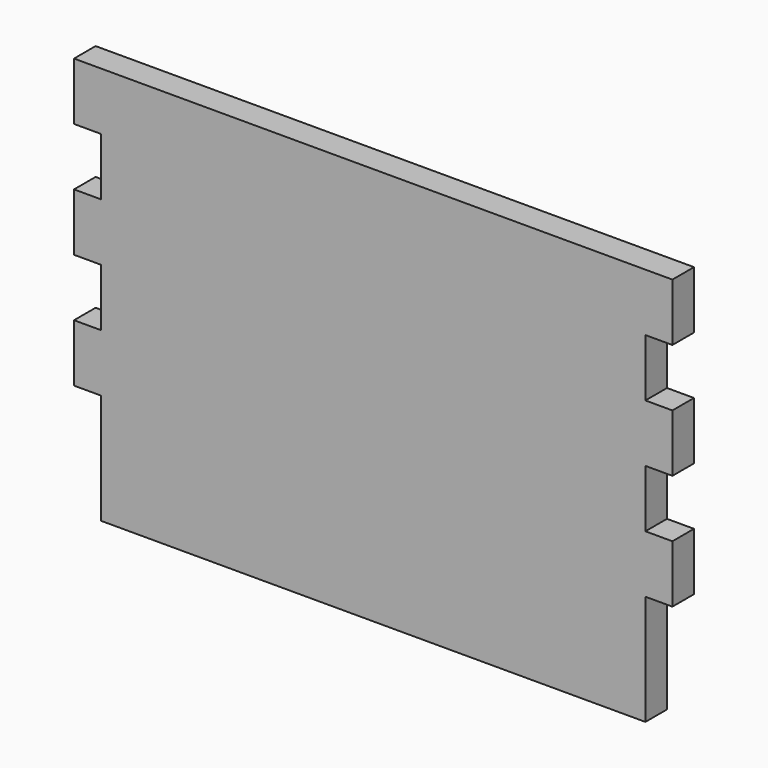
from build123d import *

# Parameters (mm, degrees)
F1_DEPTH = 19.05
F2_W     = 384.175
F2_H     = 19.05
F3_DEPTH = 38.1


with BuildPart() as f1:
    # F0 (on Front) → F1 (new body)
    with BuildSketch(Plane.XZ):
        Polygon((-193.158364, 104.478267), (-193.158364, 63.838267), (-174.108364, 63.838267), (-174.108364, 23.198267), (-193.158364, 23.198267), (-193.158364, -17.441733), (-174.108364, -17.441733), (-174.108364, -58.081733), (-193.158364, -58.081733), (-193.158364, -98.721733), (-174.108364, -98.721733), (-174.108364, -138.409233), (17.979136, -138.409233), (210.066636, -138.409233), (210.066636, -98.721733), (229.116636, -98.721733), (229.116636, -58.081733), (210.066636, -58.081733), (210.066636, -17.441733), (229.116636, -17.441733), (229.116636, 23.198267), (210.066636, 23.198267), (210.066636, 63.838267), (229.116636, 63.838267), (229.116636, 104.478267), (17.979136, 104.478267), align=None)
    extrude(amount=F1_DEPTH)

    # F2 (on face) → F3 (join)
    with BuildSketch(Plane(origin=(0, 0, -138.409233), x_dir=(1, 0, 0), z_dir=(0, 0, -1))):
        with Locations((17.979136, 9.525)):
            Rectangle(F2_W, F2_H)
    extrude(amount=F3_DEPTH)


solid = f1.part
